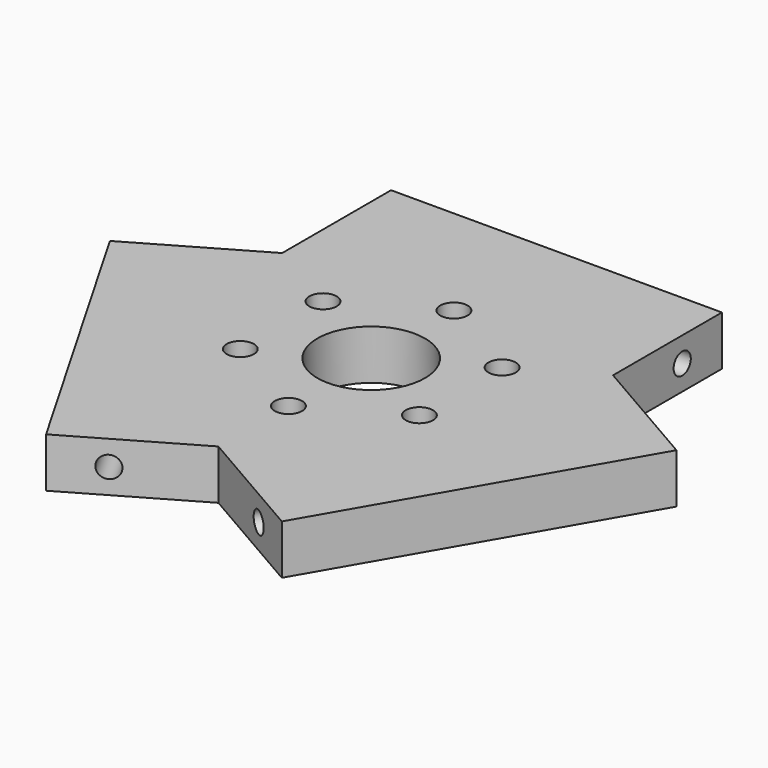
from build123d import *

# Parameters (mm, degrees)
F0_W     = 40
F0_H     = 28
F1_DEPTH = 6
F2_R     = 1.3
F3_DEPTH = 10
F6_COUNT = 3
F7_R     = 6.5
F7_R_2   = 1.65
F8_DEPTH = 6.001


with BuildPart() as f1:
    # F0 (on Top) → F1 (new body)
    with BuildSketch(Plane.XY):
        with Locations((0, 14)):
            Rectangle(F0_W, F0_H)
    extrude(amount=F1_DEPTH)

    # F2 (on face) → F3 (cut)
    with BuildSketch(Plane(origin=(-20, 0, 0), x_dir=(0, -1, 0), z_dir=(-1, 0, 0))):
        with Locations((-22, 3)):
            Circle(F2_R)
    extrude(amount=-F3_DEPTH, mode=Mode.SUBTRACT)

    # F4: F1 across plane


with BuildPart() as f1_1:
    add(f1.part)
    add(f1.part.mirror(Plane.YZ), mode=Mode.INTERSECT)

    # F6: F1 ×3 about axis
    f6_axis = Axis((0, 0, 8.396655), (0, 0, 1))


with BuildPart() as f1_2:
    add(f1_1.part)
    for i in range(1, F6_COUNT):
        add(f1_1.part.rotate(f6_axis, i * 360 / F6_COUNT))

    # F7 (on face) → F8 (cut, through all)
    with BuildSketch(Plane.XY.offset(6)):
        Circle(F7_R)
        with Locations((0, 12.5)):
            Circle(F7_R_2)
        with Locations((10.825318, 6.25)):
            Circle(F7_R_2)
        with Locations((10.825318, -6.25)):
            Circle(F7_R_2)
        with Locations((0, -12.5)):
            Circle(F7_R_2)
        with Locations((-10.825318, 6.25)):
            Circle(F7_R_2)
        with Locations((-10.825318, -6.25)):
            Circle(F7_R_2)
    extrude(amount=-F8_DEPTH, mode=Mode.SUBTRACT)


solid = f1_2.part
